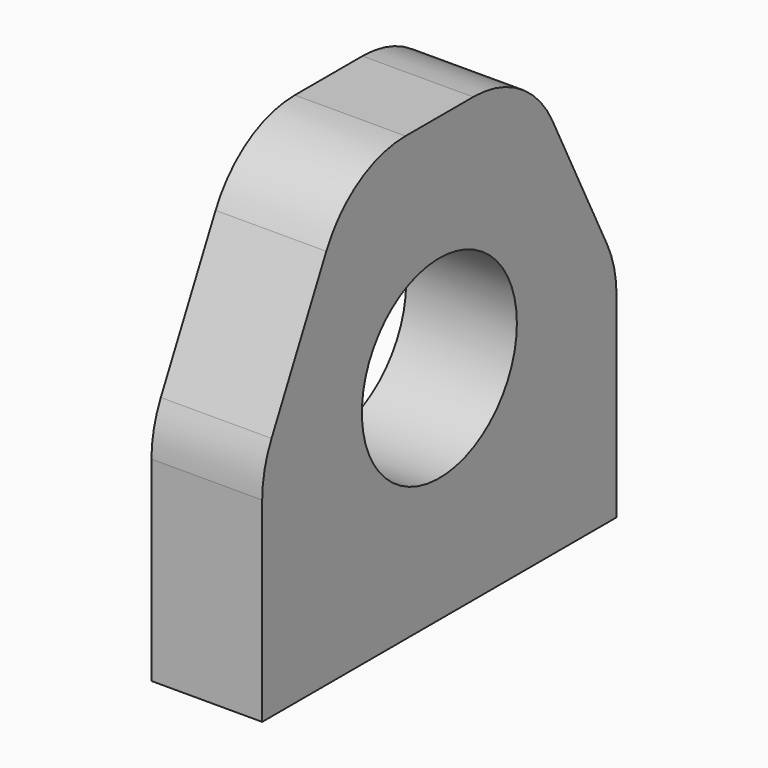
from build123d import *

# Parameters (mm, degrees)
F0_R     = 11.1125
F1_DEPTH = 12.7


with BuildPart() as f1:
    # F0 (on Right) → F1 (new body)
    with BuildSketch(Plane.YZ):
        with BuildLine():
            Line((4.850968, 25.4), (0, 25.4))
            Line((0, 25.4), (-4.850968, 25.4))
            ThreePointArc((-4.850968, 25.4), (-11.527753, 23.503265), (-16.210194, 18.379613))
            Line((-16.210194, 18.379613), (-24.059225, 2.681549))
            ThreePointArc((-24.059225, 2.681549), (-25.060262, -0.080201), (-25.4, -2.998063))
            Line((-25.4, -2.998063), (-25.4, -25.4))
            Line((-25.4, -25.4), (0, -25.4))
            Line((0, -25.4), (25.4, -25.4))
            Line((25.4, -25.4), (25.4, -2.998063))
            ThreePointArc((25.4, -2.998063), (25.060262, -0.080201), (24.059225, 2.681549))
            Line((24.059225, 2.681549), (16.210194, 18.379613))
            ThreePointArc((16.210194, 18.379613), (11.527753, 23.503265), (4.850968, 25.4))
        make_face()
        Circle(F0_R, mode=Mode.SUBTRACT)
    extrude(amount=F1_DEPTH)


solid = f1.part
